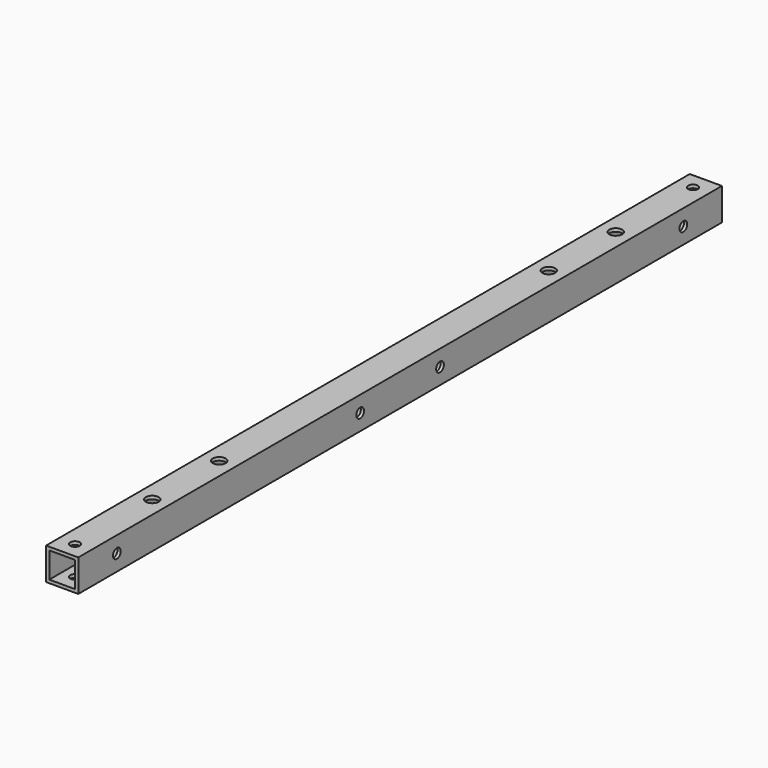
from build123d import *

# Parameters (mm, degrees)
F0_W     = 10
F0_H     = 10
F0_W_2   = 8
F0_H_2   = 8
F1_DEPTH = 250
F2_R     = 1.5
F4_DEPTH = 25
F3_R     = 1.5
F3_R_2   = 2
F5_DEPTH = 25


with BuildPart() as f1:
    # F0 (on Front) → F1 (new body)
    with BuildSketch(Plane.XZ):
        Rectangle(F0_W, F0_H)
        Rectangle(F0_W_2, F0_H_2, mode=Mode.SUBTRACT)
    extrude(amount=F1_DEPTH)

    # F2 (on face) → F4 (cut)
    with BuildSketch(Plane.YZ.offset(5)):
        with Locations((-140.5, 0)):
            Circle(F2_R)
        with Locations((-235, 0)):
            Circle(F2_R)
        with Locations((-15, 0)):
            Circle(F2_R)
        with Locations((-109.5, 0)):
            Circle(F2_R)
    extrude(amount=-F4_DEPTH, mode=Mode.SUBTRACT)

    # F3 (on face) → F5 (cut)
    with BuildSketch(Plane.XY.offset(5)):
        with Locations((0, -245)):
            Circle(F3_R)
        with Locations((0, -215)):
            Circle(F3_R_2)
        with Locations((0, -189)):
            Circle(F3_R_2)
        with Locations((0, -61)):
            Circle(F3_R_2)
        with Locations((0, -35)):
            Circle(F3_R_2)
        with Locations((0, -5)):
            Circle(F3_R)
    extrude(amount=-F5_DEPTH, mode=Mode.SUBTRACT)


solid = f1.part
